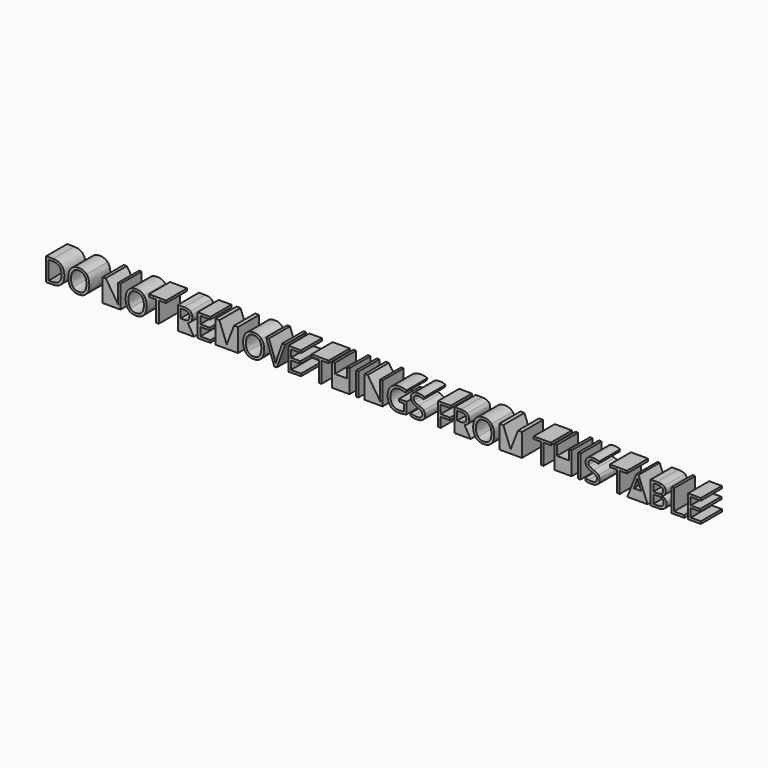
from build123d import *

# Parameters (mm, degrees)
F0_W     = 0.8051676295
F0_H     = 6.9280807897
F0_W_2   = 3.6497899892
F0_H_2   = 3.2600949218
F1_DEPTH = 8


with BuildPart() as f1:
    # F0 (on Front) → F1 (new body)
    with BuildSketch(Plane.XZ):
        with BuildLine():
            Line((-99.0477490182, 1.5), (-97.1280838223, 1.5))
            add(Edge.make_bspline(
                [(-94.4487406936, 2.4075194468), (-95.3797631503, 1.5), (-97.1280838223, 1.5)],
                knots=[0, 0, 0, 1, 1, 1], degree=2))
            add(Edge.make_bspline(
                [(-93.5177182368, 5.0300004549), (-93.5177182368, 3.3150388937), (-94.4487406936, 2.4075194468)],
                knots=[0, 0, 0, 1, 1, 1], degree=2))
            add(Edge.make_bspline(
                [(-94.4131070979, 7.5326919286), (-93.5177182368, 6.6373030675), (-93.5177182368, 5.0300004549)],
                knots=[0, 0, 0, 1, 1, 1], degree=2))
            add(Edge.make_bspline(
                [(-96.9248965109, 8.4280807897), (-95.308495959, 8.4280807897), (-94.4131070979, 7.5326919286)],
                knots=[0, 0, 0, 1, 1, 1], degree=2))
            Line((-96.9248965109, 8.4280807897), (-99.0477490182, 8.4280807897))
            Line((-99.0477490182, 8.4280807897), (-99.0477490182, 1.5))
        make_face()
        with BuildLine():
            add(Edge.make_bspline(
                [(-94.3698918862, 5.0011903137), (-94.3698918862, 6.3567832719), (-95.0499628501, 7.0436776903)],
                knots=[0, 0, 0, 1, 1, 1], degree=2))
            add(Edge.make_bspline(
                [(-95.0954525467, 2.9048734628), (-94.3698918862, 3.6137545679), (-94.3698918862, 5.0011903137)],
                knots=[0, 0, 0, 1, 1, 1], degree=2))
            add(Edge.make_bspline(
                [(-97.2615202657, 2.1959923577), (-95.8210132072, 2.1959923577), (-95.0954525467, 2.9048734628)],
                knots=[0, 0, 0, 1, 1, 1], degree=2))
            Line((-97.2615202657, 2.1959923577), (-98.2425813886, 2.1959923577))
            Line((-98.2425813886, 2.1959923577), (-98.2425813886, 7.7305721088))
            Line((-98.2425813886, 7.7305721088), (-97.0719798632, 7.7305721088))
            add(Edge.make_bspline(
                [(-95.0499628501, 7.0436776903), (-95.730033814, 7.7305721088), (-97.0719798632, 7.7305721088)],
                knots=[0, 0, 0, 1, 1, 1], degree=2))
        make_face(mode=Mode.SUBTRACT)
        with BuildLine():
            add(Edge.make_bspline(
                [(-88.2565695122, 1.5), (-88.6647423956, 1.4044716372), (-89.138576779, 1.4044716372)],
                knots=[0.6833950988, 0.6833950988, 0.6833950988, 1, 1, 1], degree=2))
            Line((-88.2565695122, 1.5), (-90.0447195094, 1.5))
            add(Edge.make_bspline(
                [(-89.138576779, 1.4044716372), (-89.6272682342, 1.4044716372), (-90.0447195094, 1.5)],
                knots=[0, 0, 0, 0.319412416, 0.319412416, 0.319412416], degree=2))
        make_face()
        with BuildLine():
            Line((-90.0447195094, 1.5), (-88.2565695122, 1.5))
            add(Edge.make_bspline(
                [(-86.8004063746, 2.3574807806), (-87.3755239349, 1.7061990029), (-88.2565695122, 1.5)],
                knots=[0, 0, 0, 0.6833950988, 0.6833950988, 0.6833950988], degree=2))
            add(Edge.make_bspline(
                [(-85.9588469878, 4.9738964958), (-85.9588469878, 3.310489924), (-86.8004063746, 2.3574807806)],
                knots=[0, 0, 0, 1, 1, 1], degree=2))
            add(Edge.make_bspline(
                [(-86.7973737282, 7.5895540493), (-85.9588469878, 6.6418520372), (-85.9588469878, 4.9738964958)],
                knots=[0, 0, 0, 1, 1, 1], degree=2))
            add(Edge.make_bspline(
                [(-89.1294788397, 8.5372560615), (-87.6359004685, 8.5372560615), (-86.7973737282, 7.5895540493)],
                knots=[0, 0, 0, 1, 1, 1], degree=2))
            add(Edge.make_bspline(
                [(-91.4979757085, 7.6062336048), (-90.6639979378, 8.5372560615), (-89.1294788397, 8.5372560615)],
                knots=[0, 0, 0, 1, 1, 1], degree=2))
            add(Edge.make_bspline(
                [(-92.3319534792, 4.9829944351), (-92.3319534792, 6.675211148), (-91.4979757085, 7.6062336048)],
                knots=[0, 0, 0, 1, 1, 1], degree=2))
            add(Edge.make_bspline(
                [(-91.5002501933, 2.3408012252), (-92.3319534792, 3.2771308132), (-92.3319534792, 4.9829944351)],
                knots=[0, 0, 0, 1, 1, 1], degree=2))
            add(Edge.make_bspline(
                [(-90.0447195094, 1.5), (-90.9342032634, 1.7035469331), (-91.5002501933, 2.3408012252)],
                knots=[0.319412416, 0.319412416, 0.319412416, 1, 1, 1], degree=2))
        make_face()
        with BuildLine():
            add(Edge.make_bspline(
                [(-91.4797798299, 4.9738964958), (-91.4797798299, 3.5667485481), (-90.8800739966, 2.8389134028)],
                knots=[0, 0, 0, 1, 1, 1], degree=2))
            add(Edge.make_bspline(
                [(-90.8800739966, 7.0891673869), (-91.4797798299, 6.3613322416), (-91.4797798299, 4.9738964958)],
                knots=[0, 0, 0, 1, 1, 1], degree=2))
            add(Edge.make_bspline(
                [(-89.1294788397, 7.8170025323), (-90.2803681633, 7.8170025323), (-90.8800739966, 7.0891673869)],
                knots=[0, 0, 0, 1, 1, 1], degree=2))
            add(Edge.make_bspline(
                [(-87.3978377231, 7.0944745182), (-87.9831384858, 7.8170025323), (-89.1294788397, 7.8170025323)],
                knots=[0, 0, 0, 1, 1, 1], degree=2))
            add(Edge.make_bspline(
                [(-86.8125369604, 4.9738964958), (-86.8125369604, 6.3719465041), (-87.3978377231, 7.0944745182)],
                knots=[0, 0, 0, 1, 1, 1], degree=2))
            add(Edge.make_bspline(
                [(-87.4001122079, 2.8358807563), (-86.8125369604, 3.5606832552), (-86.8125369604, 4.9738964958)],
                knots=[0, 0, 0, 1, 1, 1], degree=2))
            add(Edge.make_bspline(
                [(-89.138576779, 2.1110782574), (-87.9876874555, 2.1110782574), (-87.4001122079, 2.8358807563)],
                knots=[0, 0, 0, 1, 1, 1], degree=2))
            add(Edge.make_bspline(
                [(-90.8800739966, 2.8389134028), (-90.2803681633, 2.1110782574), (-89.138576779, 2.1110782574)],
                knots=[0, 0, 0, 1, 1, 1], degree=2))
        make_face(mode=Mode.SUBTRACT)
        with BuildLine():
            Line((-77.4007187372, 1.5), (-76.4818268662, 1.5))
            Line((-76.4818268662, 1.5), (-76.4818268662, 8.4280807897))
            Line((-76.4818268662, 8.4280807897), (-77.2354395063, 8.4280807897))
            Line((-77.2354395063, 8.4280807897), (-77.2354395063, 4.4522813083))
            add(Edge.make_bspline(
                [(-77.2111783348, 3.4590895995), (-77.2445374456, 4.1535656341), (-77.2354395063, 4.4522813083)],
                knots=[0, 0, 0, 1, 1, 1], degree=2))
            add(Edge.make_bspline(
                [(-77.1687212846, 2.6372424146), (-77.1778192239, 2.764613565), (-77.2111783348, 3.4590895995)],
                knots=[0, 0, 0, 1, 1, 1], degree=2))
            Line((-77.1687212846, 2.6372424146), (-77.2066293651, 2.6372424146))
            Line((-77.2066293651, 2.6372424146), (-80.9837905048, 8.4280807897))
            Line((-80.9837905048, 8.4280807897), (-81.8935844365, 8.4280807897))
            Line((-81.8935844365, 8.4280807897), (-81.8935844365, 1.5))
            Line((-81.8935844365, 1.5), (-81.1490697357, 1.5))
            Line((-81.1490697357, 1.5), (-81.1490697357, 5.4378914009))
            add(Edge.make_bspline(
                [(-81.2248858967, 7.3135832234), (-81.1490697357, 6.2900650503), (-81.1490697357, 5.4378914009)],
                knots=[0, 0, 0, 1, 1, 1], degree=2))
            Line((-81.2248858967, 7.3135832234), (-81.1869778162, 7.3135832234))
            Line((-81.1869778162, 7.3135832234), (-77.4007187372, 1.5))
        make_face()
        with BuildLine():
            add(Edge.make_bspline(
                [(-70.8613095386, 1.5), (-71.269482422, 1.4044716372), (-71.7433168054, 1.4044716372)],
                knots=[0.6833950988, 0.6833950988, 0.6833950988, 1, 1, 1], degree=2))
            Line((-70.8613095386, 1.5), (-72.6494595358, 1.5))
            add(Edge.make_bspline(
                [(-71.7433168054, 1.4044716372), (-72.2320082605, 1.4044716372), (-72.6494595358, 1.5)],
                knots=[0, 0, 0, 0.319412416, 0.319412416, 0.319412416], degree=2))
        make_face()
        with BuildLine():
            Line((-72.6494595358, 1.5), (-70.8613095386, 1.5))
            add(Edge.make_bspline(
                [(-69.405146401, 2.3574807806), (-69.9802639613, 1.7061990029), (-70.8613095386, 1.5)],
                knots=[0, 0, 0, 0.6833950988, 0.6833950988, 0.6833950988], degree=2))
            add(Edge.make_bspline(
                [(-68.5635870142, 4.9738964958), (-68.5635870142, 3.310489924), (-69.405146401, 2.3574807806)],
                knots=[0, 0, 0, 1, 1, 1], degree=2))
            add(Edge.make_bspline(
                [(-69.4021137546, 7.5895540493), (-68.5635870142, 6.6418520372), (-68.5635870142, 4.9738964958)],
                knots=[0, 0, 0, 1, 1, 1], degree=2))
            add(Edge.make_bspline(
                [(-71.7342188661, 8.5372560615), (-70.2406404949, 8.5372560615), (-69.4021137546, 7.5895540493)],
                knots=[0, 0, 0, 1, 1, 1], degree=2))
            add(Edge.make_bspline(
                [(-74.1027157349, 7.6062336048), (-73.2687379642, 8.5372560615), (-71.7342188661, 8.5372560615)],
                knots=[0, 0, 0, 1, 1, 1], degree=2))
            add(Edge.make_bspline(
                [(-74.9366935056, 4.9829944351), (-74.9366935056, 6.675211148), (-74.1027157349, 7.6062336048)],
                knots=[0, 0, 0, 1, 1, 1], degree=2))
            add(Edge.make_bspline(
                [(-74.1049902197, 2.3408012252), (-74.9366935056, 3.2771308132), (-74.9366935056, 4.9829944351)],
                knots=[0, 0, 0, 1, 1, 1], degree=2))
            add(Edge.make_bspline(
                [(-72.6494595358, 1.5), (-73.5389432898, 1.7035469331), (-74.1049902197, 2.3408012252)],
                knots=[0.319412416, 0.319412416, 0.319412416, 1, 1, 1], degree=2))
        make_face()
        with BuildLine():
            add(Edge.make_bspline(
                [(-74.0845198563, 4.9738964958), (-74.0845198563, 3.5667485481), (-73.484814023, 2.8389134028)],
                knots=[0, 0, 0, 1, 1, 1], degree=2))
            add(Edge.make_bspline(
                [(-73.484814023, 7.0891673869), (-74.0845198563, 6.3613322416), (-74.0845198563, 4.9738964958)],
                knots=[0, 0, 0, 1, 1, 1], degree=2))
            add(Edge.make_bspline(
                [(-71.7342188661, 7.8170025323), (-72.8851081897, 7.8170025323), (-73.484814023, 7.0891673869)],
                knots=[0, 0, 0, 1, 1, 1], degree=2))
            add(Edge.make_bspline(
                [(-70.0025777495, 7.0944745182), (-70.5878785122, 7.8170025323), (-71.7342188661, 7.8170025323)],
                knots=[0, 0, 0, 1, 1, 1], degree=2))
            add(Edge.make_bspline(
                [(-69.4172769868, 4.9738964958), (-69.4172769868, 6.3719465041), (-70.0025777495, 7.0944745182)],
                knots=[0, 0, 0, 1, 1, 1], degree=2))
            add(Edge.make_bspline(
                [(-70.0048522343, 2.8358807563), (-69.4172769868, 3.5606832552), (-69.4172769868, 4.9738964958)],
                knots=[0, 0, 0, 1, 1, 1], degree=2))
            add(Edge.make_bspline(
                [(-71.7433168054, 2.1110782574), (-70.5924274818, 2.1110782574), (-70.0048522343, 2.8358807563)],
                knots=[0, 0, 0, 1, 1, 1], degree=2))
            add(Edge.make_bspline(
                [(-73.484814023, 2.8389134028), (-72.8851081897, 2.1110782574), (-71.7433168054, 2.1110782574)],
                knots=[0, 0, 0, 1, 1, 1], degree=2))
        make_face(mode=Mode.SUBTRACT)
        Polygon((-65.6931871598, 1.5), (-64.8880195302, 1.5), (-64.8880195302, 7.7123762301), (-62.6938998317, 7.7123762301), (-62.6938998317, 8.4280807897), (-67.8873068583, 8.4280807897), (-67.8873068583, 7.7123762301), (-65.6931871598, 7.7123762301), align=None)
        with BuildLine():
            Line((-55.2002304811, 1.5), (-54.2479794993, 1.5))
            Line((-54.2479794993, 1.5), (-56.1297366147, 4.6130115695))
            add(Edge.make_bspline(
                [(-54.736235576, 6.4705075134), (-54.736235576, 5.0967186766), (-56.1297366147, 4.6130115695)],
                knots=[0, 0, 0, 1, 1, 1], degree=2))
            add(Edge.make_bspline(
                [(-55.3450393486, 7.939824713), (-54.736235576, 7.4515686364), (-54.736235576, 6.4705075134)],
                knots=[0, 0, 0, 1, 1, 1], degree=2))
            add(Edge.make_bspline(
                [(-57.2290709488, 8.4280807897), (-55.9538431212, 8.4280807897), (-55.3450393486, 7.939824713)],
                knots=[0, 0, 0, 1, 1, 1], degree=2))
            Line((-57.2290709488, 8.4280807897), (-59.1290239427, 8.4280807897))
            Line((-59.1290239427, 8.4280807897), (-59.1290239427, 1.5))
            Line((-59.1290239427, 1.5), (-58.3238563132, 1.5))
            Line((-58.3238563132, 1.5), (-58.3238563132, 4.381014117))
            Line((-58.3238563132, 4.381014117), (-56.8772839618, 4.381014117))
            Line((-56.8772839618, 4.381014117), (-55.2002304811, 1.5))
        make_face()
        with BuildLine():
            Line((-57.2184566862, 5.072457505), (-58.3238563132, 5.072457505))
            Line((-58.3238563132, 5.072457505), (-58.3238563132, 7.7214741694))
            Line((-58.3238563132, 7.7214741694), (-57.2760769686, 7.7214741694))
            add(Edge.make_bspline(
                [(-55.9750716463, 7.4182095255), (-56.3799299459, 7.7214741694), (-57.2760769686, 7.7214741694)],
                knots=[0, 0, 0, 1, 1, 1], degree=2))
            add(Edge.make_bspline(
                [(-55.5702133467, 6.4280504632), (-55.5702133467, 7.1149448817), (-55.9750716463, 7.4182095255)],
                knots=[0, 0, 0, 1, 1, 1], degree=2))
            add(Edge.make_bspline(
                [(-55.9682481918, 5.4113557446), (-55.5702133467, 5.7502539841), (-55.5702133467, 6.4280504632)],
                knots=[0, 0, 0, 1, 1, 1], degree=2))
            add(Edge.make_bspline(
                [(-57.2184566862, 5.072457505), (-56.3662830369, 5.072457505), (-55.9682481918, 5.4113557446)],
                knots=[0, 0, 0, 1, 1, 1], degree=2))
        make_face(mode=Mode.SUBTRACT)
        Polygon((-53.1304492866, 1.5), (-49.2683740466, 1.5), (-49.2683740466, 2.2202535292), (-52.325281657, 2.2202535292), (-52.325281657, 4.7691928612), (-49.4533654794, 4.7691928612), (-49.4533654794, 5.4803484511), (-52.325281657, 5.4803484511), (-52.325281657, 7.7123762301), (-49.2683740466, 7.7123762301), (-49.2683740466, 8.4280807897), (-53.1304492866, 8.4280807897), align=None)
        with BuildLine():
            Line((-41.67766001, 1.5), (-40.8724923805, 1.5))
            Line((-40.8724923805, 1.5), (-40.8724923805, 8.4280807897))
            Line((-40.8724923805, 8.4280807897), (-42.0764530167, 8.4280807897))
            Line((-42.0764530167, 8.4280807897), (-44.2887685939, 2.7130585756))
            Line((-44.2887685939, 2.7130585756), (-44.3266766744, 2.7130585756))
            Line((-44.3266766744, 2.7130585756), (-46.520796373, 8.4280807897))
            Line((-46.520796373, 8.4280807897), (-47.7338549485, 8.4280807897))
            Line((-47.7338549485, 8.4280807897), (-47.7338549485, 1.5))
            Line((-47.7338549485, 1.5), (-46.9893402478, 1.5))
            Line((-46.9893402478, 1.5), (-46.9893402478, 5.9064352757))
            add(Edge.make_bspline(
                [(-47.0560584694, 7.6411090388), (-46.9893402478, 6.9117575702), (-46.9893402478, 5.9064352757)],
                knots=[0, 0, 0, 1, 1, 1], degree=2))
            Line((-47.0560584694, 7.6411090388), (-47.0181503889, 7.6411090388))
            Line((-47.0181503889, 7.6411090388), (-44.6678493988, 1.5))
            Line((-44.6678493988, 1.5), (-44.0188630609, 1.5))
            Line((-44.0188630609, 1.5), (-41.6488498688, 7.6320110995))
            Line((-41.6488498688, 7.6320110995), (-41.6109417884, 7.6320110995))
            add(Edge.make_bspline(
                [(-41.67766001, 5.9640555581), (-41.67766001, 6.7313151071), (-41.6109417884, 7.6320110995)],
                knots=[0, 0, 0, 1, 1, 1], degree=2))
            Line((-41.67766001, 5.9640555581), (-41.67766001, 1.5))
        make_face()
        with BuildLine():
            add(Edge.make_bspline(
                [(-35.2565240225, 1.5), (-35.6646969059, 1.4044716372), (-36.1385312893, 1.4044716372)],
                knots=[0.6833950988, 0.6833950988, 0.6833950988, 1, 1, 1], degree=2))
            Line((-35.2565240225, 1.5), (-37.0446740197, 1.5))
            add(Edge.make_bspline(
                [(-36.1385312893, 1.4044716372), (-36.6272227445, 1.4044716372), (-37.0446740197, 1.5)],
                knots=[0, 0, 0, 0.319412416, 0.319412416, 0.319412416], degree=2))
        make_face()
        with BuildLine():
            Line((-37.0446740197, 1.5), (-35.2565240225, 1.5))
            add(Edge.make_bspline(
                [(-33.8003608849, 2.3574807806), (-34.3754784452, 1.7061990029), (-35.2565240225, 1.5)],
                knots=[0, 0, 0, 0.6833950988, 0.6833950988, 0.6833950988], degree=2))
            add(Edge.make_bspline(
                [(-32.9588014981, 4.9738964958), (-32.9588014981, 3.310489924), (-33.8003608849, 2.3574807806)],
                knots=[0, 0, 0, 1, 1, 1], degree=2))
            add(Edge.make_bspline(
                [(-33.7973282385, 7.5895540493), (-32.9588014981, 6.6418520372), (-32.9588014981, 4.9738964958)],
                knots=[0, 0, 0, 1, 1, 1], degree=2))
            add(Edge.make_bspline(
                [(-36.12943335, 8.5372560615), (-34.6358549788, 8.5372560615), (-33.7973282385, 7.5895540493)],
                knots=[0, 0, 0, 1, 1, 1], degree=2))
            add(Edge.make_bspline(
                [(-38.4979302188, 7.6062336048), (-37.6639524481, 8.5372560615), (-36.12943335, 8.5372560615)],
                knots=[0, 0, 0, 1, 1, 1], degree=2))
            add(Edge.make_bspline(
                [(-39.3319079895, 4.9829944351), (-39.3319079895, 6.675211148), (-38.4979302188, 7.6062336048)],
                knots=[0, 0, 0, 1, 1, 1], degree=2))
            add(Edge.make_bspline(
                [(-38.5002047036, 2.3408012252), (-39.3319079895, 3.2771308132), (-39.3319079895, 4.9829944351)],
                knots=[0, 0, 0, 1, 1, 1], degree=2))
            add(Edge.make_bspline(
                [(-37.0446740197, 1.5), (-37.9341577737, 1.7035469331), (-38.5002047036, 2.3408012252)],
                knots=[0.319412416, 0.319412416, 0.319412416, 1, 1, 1], degree=2))
        make_face()
        with BuildLine():
            add(Edge.make_bspline(
                [(-38.4797343402, 4.9738964958), (-38.4797343402, 3.5667485481), (-37.8800285069, 2.8389134028)],
                knots=[0, 0, 0, 1, 1, 1], degree=2))
            add(Edge.make_bspline(
                [(-37.8800285069, 7.0891673869), (-38.4797343402, 6.3613322416), (-38.4797343402, 4.9738964958)],
                knots=[0, 0, 0, 1, 1, 1], degree=2))
            add(Edge.make_bspline(
                [(-36.12943335, 7.8170025323), (-37.2803226736, 7.8170025323), (-37.8800285069, 7.0891673869)],
                knots=[0, 0, 0, 1, 1, 1], degree=2))
            add(Edge.make_bspline(
                [(-34.3977922334, 7.0944745182), (-34.9830929961, 7.8170025323), (-36.12943335, 7.8170025323)],
                knots=[0, 0, 0, 1, 1, 1], degree=2))
            add(Edge.make_bspline(
                [(-33.8124914707, 4.9738964958), (-33.8124914707, 6.3719465041), (-34.3977922334, 7.0944745182)],
                knots=[0, 0, 0, 1, 1, 1], degree=2))
            add(Edge.make_bspline(
                [(-34.4000667182, 2.8358807563), (-33.8124914707, 3.5606832552), (-33.8124914707, 4.9738964958)],
                knots=[0, 0, 0, 1, 1, 1], degree=2))
            add(Edge.make_bspline(
                [(-36.1385312893, 2.1110782574), (-34.9876419658, 2.1110782574), (-34.4000667182, 2.8358807563)],
                knots=[0, 0, 0, 1, 1, 1], degree=2))
            add(Edge.make_bspline(
                [(-37.8800285069, 2.8389134028), (-37.2803226736, 2.1110782574), (-36.1385312893, 2.1110782574)],
                knots=[0, 0, 0, 1, 1, 1], degree=2))
        make_face(mode=Mode.SUBTRACT)
        with BuildLine():
            Line((-29.8836980091, 1.5), (-29.0876283189, 1.5))
            Line((-29.0876283189, 1.5), (-26.5917602996, 8.4280807897))
            Line((-26.5917602996, 8.4280807897), (-27.4575808579, 8.4280807897))
            Line((-27.4575808579, 8.4280807897), (-29.040622299, 3.9731231709))
            add(Edge.make_bspline(
                [(-29.4864213256, 2.4431530425), (-29.3150768018, 3.2104125915), (-29.040622299, 3.9731231709)],
                knots=[0, 0, 0, 1, 1, 1], degree=2))
            add(Edge.make_bspline(
                [(-29.9216060896, 3.945829353), (-29.6471515868, 3.1725045111), (-29.4864213256, 2.4431530425)],
                knots=[0, 0, 0, 1, 1, 1], degree=2))
            Line((-29.9216060896, 3.945829353), (-31.51374547, 8.4280807897))
            Line((-31.51374547, 8.4280807897), (-32.3674354425, 8.4280807897))
            Line((-32.3674354425, 8.4280807897), (-29.8836980091, 1.5))
        make_face()
        Polygon((-25.6395093178, 1.5), (-21.7774340778, 1.5), (-21.7774340778, 2.2202535292), (-24.8343416883, 2.2202535292), (-24.8343416883, 4.7691928612), (-21.9624255106, 4.7691928612), (-21.9624255106, 5.4803484511), (-24.8343416883, 5.4803484511), (-24.8343416883, 7.7123762301), (-21.7774340778, 7.7123762301), (-21.7774340778, 8.4280807897), (-25.6395093178, 8.4280807897), align=None)
        Polygon((-16.3944866488, 1.5), (-15.5893190192, 1.5), (-15.5893190192, 7.7123762301), (-13.3951993207, 7.7123762301), (-13.3951993207, 8.4280807897), (-18.5886063473, 8.4280807897), (-18.5886063473, 7.7123762301), (-16.3944866488, 7.7123762301), align=None)
        Polygon((-7.8970113269, 1.5), (-7.0918436974, 1.5), (-7.0918436974, 8.4280807897), (-7.8970113269, 8.4280807897), (-7.8970113269, 5.4803484511), (-11.5468013162, 5.4803484511), (-11.5468013162, 8.4280807897), (-12.3519689457, 8.4280807897), (-12.3519689457, 1.5), (-11.5468013162, 1.5), (-11.5468013162, 4.7600949218), (-7.8970113269, 4.7600949218), align=None)
        with Locations((-4.7893068887, 4.9640403949)):
            Rectangle(F0_W, F0_H)
        with BuildLine():
            Line((2.0060956193, 1.5), (2.9249874903, 1.5))
            Line((2.9249874903, 1.5), (2.9249874903, 8.4280807897))
            Line((2.9249874903, 8.4280807897), (2.1713748503, 8.4280807897))
            Line((2.1713748503, 8.4280807897), (2.1713748503, 4.4522813083))
            add(Edge.make_bspline(
                [(2.1956360218, 3.4590895995), (2.1622769109, 4.1535656341), (2.1713748503, 4.4522813083)],
                knots=[0, 0, 0, 1, 1, 1], degree=2))
            add(Edge.make_bspline(
                [(2.2380930719, 2.6372424146), (2.2289951326, 2.764613565), (2.1956360218, 3.4590895995)],
                knots=[0, 0, 0, 1, 1, 1], degree=2))
            Line((2.2380930719, 2.6372424146), (2.2001849914, 2.6372424146))
            Line((2.2001849914, 2.6372424146), (-1.5769761482, 8.4280807897))
            Line((-1.5769761482, 8.4280807897), (-2.4867700799, 8.4280807897))
            Line((-2.4867700799, 8.4280807897), (-2.4867700799, 1.5))
            Line((-2.4867700799, 1.5), (-1.7422553792, 1.5))
            Line((-1.7422553792, 1.5), (-1.7422553792, 5.4378914009))
            add(Edge.make_bspline(
                [(-1.8180715401, 7.3135832234), (-1.7422553792, 6.2900650503), (-1.7422553792, 5.4378914009)],
                knots=[0, 0, 0, 1, 1, 1], degree=2))
            Line((-1.8180715401, 7.3135832234), (-1.7801634596, 7.3135832234))
            Line((-1.7801634596, 7.3135832234), (2.0060956193, 1.5))
        make_face()
        with BuildLine():
            add(Edge.make_bspline(
                [(9.1460810607, 1.5), (9.1295994626, 1.497310379), (9.1131025489, 1.4946928687)],
                knots=[0.9709878678, 0.9709878678, 0.9709878678, 1, 1, 1], degree=2))
            Line((9.1460810607, 1.5), (6.8619202702, 1.5))
            add(Edge.make_bspline(
                [(7.7954176712, 1.4044716372), (7.2931649071, 1.4044716372), (6.8619202702, 1.5)],
                knots=[0, 0, 0, 0.319412416, 0.319412416, 0.319412416], degree=2))
            add(Edge.make_bspline(
                [(9.1131025489, 1.4946928687), (8.5444813416, 1.4044716372), (7.7954176712, 1.4044716372)],
                knots=[0, 0, 0, 1, 1, 1], degree=2))
        make_face()
        with BuildLine():
            Line((6.8619202702, 1.5), (9.1460810607, 1.5))
            add(Edge.make_bspline(
                [(10.2321490849, 1.7608075937), (9.6976927686, 1.5900171456), (9.1460810607, 1.5)],
                knots=[0, 0, 0, 0.9709878678, 0.9709878678, 0.9709878678], degree=2))
            Line((10.2321490849, 1.7608075937), (10.2321490849, 5.1300777874))
            Line((10.2321490849, 5.1300777874), (7.8772991251, 5.1300777874))
            Line((7.8772991251, 5.1300777874), (7.8772991251, 4.4098242581))
            Line((7.8772991251, 4.4098242581), (9.4254651321, 4.4098242581))
            Line((9.4254651321, 4.4098242581), (9.4254651321, 2.2778738116))
            add(Edge.make_bspline(
                [(8.0183171845, 2.1110782574), (8.7385707137, 2.1110782574), (9.4254651321, 2.2778738116)],
                knots=[0, 0, 0, 1, 1, 1], degree=2))
            add(Edge.make_bspline(
                [(6.0069144339, 2.8358807563), (6.6915343675, 2.1110782574), (8.0183171845, 2.1110782574)],
                knots=[0, 0, 0, 1, 1, 1], degree=2))
            add(Edge.make_bspline(
                [(5.3222945003, 4.9632822332), (5.3222945003, 3.5606832552), (6.0069144339, 2.8358807563)],
                knots=[0, 0, 0, 1, 1, 1], degree=2))
            add(Edge.make_bspline(
                [(6.0334500902, 7.0535337913), (5.3222945003, 6.3006793128), (5.3222945003, 4.9632822332)],
                knots=[0, 0, 0, 1, 1, 1], degree=2))
            add(Edge.make_bspline(
                [(8.0092192452, 7.8063882697), (6.7446056801, 7.8063882697), (6.0334500902, 7.0535337913)],
                knots=[0, 0, 0, 1, 1, 1], degree=2))
            add(Edge.make_bspline(
                [(9.8151601995, 7.4091115862), (8.8765561267, 7.8063882697), (8.0092192452, 7.8063882697)],
                knots=[0, 0, 0, 1, 1, 1], degree=2))
            Line((9.8151601995, 7.4091115862), (10.1275227828, 8.1202671762))
            add(Edge.make_bspline(
                [(8.0607742346, 8.526641799), (9.1707228313, 8.526641799), (10.1275227828, 8.1202671762)],
                knots=[0, 0, 0, 1, 1, 1], degree=2))
            add(Edge.make_bspline(
                [(6.1524814629, 8.0982804895), (6.9675051934, 8.526641799), (8.0607742346, 8.526641799)],
                knots=[0, 0, 0, 1, 1, 1], degree=2))
            add(Edge.make_bspline(
                [(4.9037892917, 6.8571699343), (5.3374577325, 7.66991918), (6.1524814629, 8.0982804895)],
                knots=[0, 0, 0, 1, 1, 1], degree=2))
            add(Edge.make_bspline(
                [(4.470120851, 4.9632822332), (4.470120851, 6.0444206887), (4.9037892917, 6.8571699343)],
                knots=[0, 0, 0, 1, 1, 1], degree=2))
            add(Edge.make_bspline(
                [(5.3465556718, 2.3408012252), (4.470120851, 3.2771308132), (4.470120851, 4.9632822332)],
                knots=[0, 0, 0, 1, 1, 1], degree=2))
            add(Edge.make_bspline(
                [(6.8619202702, 1.5), (5.9430463291, 1.7035469331), (5.3465556718, 2.3408012252)],
                knots=[0.319412416, 0.319412416, 0.319412416, 1, 1, 1], degree=2))
        make_face()
        with BuildLine():
            add(Edge.make_bspline(
                [(14.2327366697, 1.5), (13.8300766863, 1.4044716372), (13.3390953616, 1.4044716372)],
                knots=[0.5682703015, 0.5682703015, 0.5682703015, 1, 1, 1], degree=2))
            Line((14.2327366697, 1.5), (12.1604551496, 1.5))
            add(Edge.make_bspline(
                [(13.3390953616, 1.4044716372), (12.664709523, 1.4044716372), (12.1604551496, 1.5)],
                knots=[0, 0, 0, 0.5477225575, 0.5477225575, 0.5477225575], degree=2))
        make_face()
        with BuildLine():
            Line((12.1604551496, 1.5), (14.2327366697, 1.5))
            add(Edge.make_bspline(
                [(15.1397291847, 1.9169888854), (14.7627435489, 1.6257405542), (14.2327366697, 1.5)],
                knots=[0, 0, 0, 0.5682703015, 0.5682703015, 0.5682703015], degree=2))
            add(Edge.make_bspline(
                [(15.8031205932, 3.3438490349), (15.8031205932, 2.4295061335), (15.1397291847, 1.9169888854)],
                knots=[0, 0, 0, 1, 1, 1], degree=2))
            add(Edge.make_bspline(
                [(15.3937133239, 4.4992873281), (15.8031205932, 4.0534883016), (15.8031205932, 3.3438490349)],
                knots=[0, 0, 0, 1, 1, 1], degree=2))
            add(Edge.make_bspline(
                [(13.8940696599, 5.3332650988), (14.9843060547, 4.9450863546), (15.3937133239, 4.4992873281)],
                knots=[0, 0, 0, 1, 1, 1], degree=2))
            add(Edge.make_bspline(
                [(12.9296880923, 5.7570774386), (13.245083322, 5.5652625514), (13.8940696599, 5.3332650988)],
                knots=[0, 0, 0, 1, 1, 1], degree=2))
            add(Edge.make_bspline(
                [(12.481614581, 6.1793734552), (12.6142928627, 5.9488923259), (12.9296880923, 5.7570774386)],
                knots=[0, 0, 0, 1, 1, 1], degree=2))
            add(Edge.make_bspline(
                [(12.3489362993, 6.7692231876), (12.3489362993, 6.4098545846), (12.481614581, 6.1793734552)],
                knots=[0, 0, 0, 1, 1, 1], degree=2))
            add(Edge.make_bspline(
                [(12.7090630639, 7.531933767), (12.3489362993, 7.2574792643), (12.3489362993, 6.7692231876)],
                knots=[0, 0, 0, 1, 1, 1], degree=2))
            add(Edge.make_bspline(
                [(13.7090782271, 7.8063882697), (13.0691898285, 7.8063882697), (12.7090630639, 7.531933767)],
                knots=[0, 0, 0, 1, 1, 1], degree=2))
            add(Edge.make_bspline(
                [(15.3770337685, 7.4470196667), (14.5187948263, 7.8063882697), (13.7090782271, 7.8063882697)],
                knots=[0, 0, 0, 1, 1, 1], degree=2))
            Line((15.3770337685, 7.4470196667), (15.6287434229, 8.1475609941))
            add(Edge.make_bspline(
                [(13.728790429, 8.526641799), (14.7614065414, 8.526641799), (15.6287434229, 8.1475609941)],
                knots=[0, 0, 0, 1, 1, 1], degree=2))
            add(Edge.make_bspline(
                [(12.1358928869, 8.0527907929), (12.7371150434, 8.526641799), (13.728790429, 8.526641799)],
                knots=[0, 0, 0, 1, 1, 1], degree=2))
            add(Edge.make_bspline(
                [(11.5346707304, 6.7783211269), (11.5346707304, 7.5789397868), (12.1358928869, 8.0527907929)],
                knots=[0, 0, 0, 1, 1, 1], degree=2))
            add(Edge.make_bspline(
                [(11.9493851309, 5.5417595415), (11.5346707304, 6.0156105475), (11.5346707304, 6.7783211269)],
                knots=[0, 0, 0, 1, 1, 1], degree=2))
            add(Edge.make_bspline(
                [(13.3299974223, 4.7221868413), (12.3640995315, 5.0679085354), (11.9493851309, 5.5417595415)],
                knots=[0, 0, 0, 1, 1, 1], degree=2))
            add(Edge.make_bspline(
                [(14.3603390499, 4.2816949461), (14.0214408103, 4.4765424798), (13.3299974223, 4.7221868413)],
                knots=[0, 0, 0, 1, 1, 1], degree=2))
            add(Edge.make_bspline(
                [(14.8440461569, 3.8571244446), (14.6992372894, 4.0868474124), (14.3603390499, 4.2816949461)],
                knots=[0, 0, 0, 1, 1, 1], degree=2))
            add(Edge.make_bspline(
                [(14.9888550243, 3.2680328739), (14.9888550243, 3.6274014769), (14.8440461569, 3.8571244446)],
                knots=[0, 0, 0, 1, 1, 1], degree=2))
            add(Edge.make_bspline(
                [(14.5809640783, 2.4166173862), (14.9888550243, 2.7221565149), (14.9888550243, 3.2680328739)],
                knots=[0, 0, 0, 1, 1, 1], degree=2))
            add(Edge.make_bspline(
                [(13.3679055027, 2.1110782574), (14.1730731323, 2.1110782574), (14.5809640783, 2.4166173862)],
                knots=[0, 0, 0, 1, 1, 1], degree=2))
            add(Edge.make_bspline(
                [(12.3731974708, 2.2157045596), (12.8751004564, 2.1110782574), (13.3679055027, 2.1110782574)],
                knots=[0, 0, 0, 1, 1, 1], degree=2))
            add(Edge.make_bspline(
                [(11.4436913372, 2.4992570016), (11.8712944851, 2.3203308617), (12.3731974708, 2.2157045596)],
                knots=[0, 0, 0, 1, 1, 1], degree=2))
            Line((11.4436913372, 2.4992570016), (11.4436913372, 1.7228995133))
            add(Edge.make_bspline(
                [(12.1604551496, 1.5), (11.7440712063, 1.5788817678), (11.4436913372, 1.7228995133)],
                knots=[0.5477225575, 0.5477225575, 0.5477225575, 1, 1, 1], degree=2))
        make_face()
        Polygon((19.7425283173, 1.5), (20.5476959469, 1.5), (20.5476959469, 4.4613792476), (23.4196121245, 4.4613792476), (23.4196121245, 5.1770838072), (20.5476959469, 5.1770838072), (20.5476959469, 7.7123762301), (23.6046035573, 7.7123762301), (23.6046035573, 8.4280807897), (19.7425283173, 8.4280807897), align=None)
        with BuildLine():
            Line((28.6797373728, 1.5), (29.6319883546, 1.5))
            Line((29.6319883546, 1.5), (27.7502312393, 4.6130115695))
            add(Edge.make_bspline(
                [(29.143732278, 6.4705075134), (29.143732278, 5.0967186766), (27.7502312393, 4.6130115695)],
                knots=[0, 0, 0, 1, 1, 1], degree=2))
            add(Edge.make_bspline(
                [(28.5349285054, 7.939824713), (29.143732278, 7.4515686364), (29.143732278, 6.4705075134)],
                knots=[0, 0, 0, 1, 1, 1], degree=2))
            add(Edge.make_bspline(
                [(26.6508969052, 8.4280807897), (27.9261247327, 8.4280807897), (28.5349285054, 7.939824713)],
                knots=[0, 0, 0, 1, 1, 1], degree=2))
            Line((26.6508969052, 8.4280807897), (24.7509439112, 8.4280807897))
            Line((24.7509439112, 8.4280807897), (24.7509439112, 1.5))
            Line((24.7509439112, 1.5), (25.5561115407, 1.5))
            Line((25.5561115407, 1.5), (25.5561115407, 4.381014117))
            Line((25.5561115407, 4.381014117), (27.0026838921, 4.381014117))
            Line((27.0026838921, 4.381014117), (28.6797373728, 1.5))
        make_face()
        with BuildLine():
            Line((26.6615111677, 5.072457505), (25.5561115407, 5.072457505))
            Line((25.5561115407, 5.072457505), (25.5561115407, 7.7214741694))
            Line((25.5561115407, 7.7214741694), (26.6038908854, 7.7214741694))
            add(Edge.make_bspline(
                [(27.9048962077, 7.4182095255), (27.5000379081, 7.7214741694), (26.6038908854, 7.7214741694)],
                knots=[0, 0, 0, 1, 1, 1], degree=2))
            add(Edge.make_bspline(
                [(28.3097545073, 6.4280504632), (28.3097545073, 7.1149448817), (27.9048962077, 7.4182095255)],
                knots=[0, 0, 0, 1, 1, 1], degree=2))
            add(Edge.make_bspline(
                [(27.9117196622, 5.4113557446), (28.3097545073, 5.7502539841), (28.3097545073, 6.4280504632)],
                knots=[0, 0, 0, 1, 1, 1], degree=2))
            add(Edge.make_bspline(
                [(26.6615111677, 5.072457505), (27.5136848171, 5.072457505), (27.9117196622, 5.4113557446)],
                knots=[0, 0, 0, 1, 1, 1], degree=2))
        make_face(mode=Mode.SUBTRACT)
        with BuildLine():
            add(Edge.make_bspline(
                [(34.4655339314, 1.5), (34.057361048, 1.4044716372), (33.5835266645, 1.4044716372)],
                knots=[0.6833950988, 0.6833950988, 0.6833950988, 1, 1, 1], degree=2))
            Line((34.4655339314, 1.5), (32.6773839342, 1.5))
            add(Edge.make_bspline(
                [(33.5835266645, 1.4044716372), (33.0948352094, 1.4044716372), (32.6773839342, 1.5)],
                knots=[0, 0, 0, 0.319412416, 0.319412416, 0.319412416], degree=2))
        make_face()
        with BuildLine():
            Line((32.6773839342, 1.5), (34.4655339314, 1.5))
            add(Edge.make_bspline(
                [(35.9216970689, 2.3574807806), (35.3465795087, 1.7061990029), (34.4655339314, 1.5)],
                knots=[0, 0, 0, 0.6833950988, 0.6833950988, 0.6833950988], degree=2))
            add(Edge.make_bspline(
                [(36.7632564557, 4.9738964958), (36.7632564557, 3.310489924), (35.9216970689, 2.3574807806)],
                knots=[0, 0, 0, 1, 1, 1], degree=2))
            add(Edge.make_bspline(
                [(35.9247297154, 7.5895540493), (36.7632564557, 6.6418520372), (36.7632564557, 4.9738964958)],
                knots=[0, 0, 0, 1, 1, 1], degree=2))
            add(Edge.make_bspline(
                [(33.5926246039, 8.5372560615), (35.086202975, 8.5372560615), (35.9247297154, 7.5895540493)],
                knots=[0, 0, 0, 1, 1, 1], degree=2))
            add(Edge.make_bspline(
                [(31.2241277351, 7.6062336048), (32.0581055058, 8.5372560615), (33.5926246039, 8.5372560615)],
                knots=[0, 0, 0, 1, 1, 1], degree=2))
            add(Edge.make_bspline(
                [(30.3901499644, 4.9829944351), (30.3901499644, 6.675211148), (31.2241277351, 7.6062336048)],
                knots=[0, 0, 0, 1, 1, 1], degree=2))
            add(Edge.make_bspline(
                [(31.2218532502, 2.3408012252), (30.3901499644, 3.2771308132), (30.3901499644, 4.9829944351)],
                knots=[0, 0, 0, 1, 1, 1], degree=2))
            add(Edge.make_bspline(
                [(32.6773839342, 1.5), (31.7879001802, 1.7035469331), (31.2218532502, 2.3408012252)],
                knots=[0.319412416, 0.319412416, 0.319412416, 1, 1, 1], degree=2))
        make_face()
        with BuildLine():
            add(Edge.make_bspline(
                [(31.2423236137, 4.9738964958), (31.2423236137, 3.5667485481), (31.842029447, 2.8389134028)],
                knots=[0, 0, 0, 1, 1, 1], degree=2))
            add(Edge.make_bspline(
                [(31.842029447, 7.0891673869), (31.2423236137, 6.3613322416), (31.2423236137, 4.9738964958)],
                knots=[0, 0, 0, 1, 1, 1], degree=2))
            add(Edge.make_bspline(
                [(33.5926246039, 7.8170025323), (32.4417352803, 7.8170025323), (31.842029447, 7.0891673869)],
                knots=[0, 0, 0, 1, 1, 1], degree=2))
            add(Edge.make_bspline(
                [(35.3242657205, 7.0944745182), (34.7389649578, 7.8170025323), (33.5926246039, 7.8170025323)],
                knots=[0, 0, 0, 1, 1, 1], degree=2))
            add(Edge.make_bspline(
                [(35.9095664832, 4.9738964958), (35.9095664832, 6.3719465041), (35.3242657205, 7.0944745182)],
                knots=[0, 0, 0, 1, 1, 1], degree=2))
            add(Edge.make_bspline(
                [(35.3219912357, 2.8358807563), (35.9095664832, 3.5606832552), (35.9095664832, 4.9738964958)],
                knots=[0, 0, 0, 1, 1, 1], degree=2))
            add(Edge.make_bspline(
                [(33.5835266645, 2.1110782574), (34.7344159881, 2.1110782574), (35.3219912357, 2.8358807563)],
                knots=[0, 0, 0, 1, 1, 1], degree=2))
            add(Edge.make_bspline(
                [(31.842029447, 2.8389134028), (32.4417352803, 2.1110782574), (33.5835266645, 2.1110782574)],
                knots=[0, 0, 0, 1, 1, 1], degree=2))
        make_face(mode=Mode.SUBTRACT)
        with BuildLine():
            Line((44.3630684317, 1.5), (45.1682360612, 1.5))
            Line((45.1682360612, 1.5), (45.1682360612, 8.4280807897))
            Line((45.1682360612, 8.4280807897), (43.9642754249, 8.4280807897))
            Line((43.9642754249, 8.4280807897), (41.7519598478, 2.7130585756))
            Line((41.7519598478, 2.7130585756), (41.7140517673, 2.7130585756))
            Line((41.7140517673, 2.7130585756), (39.5199320687, 8.4280807897))
            Line((39.5199320687, 8.4280807897), (38.3068734932, 8.4280807897))
            Line((38.3068734932, 8.4280807897), (38.3068734932, 1.5))
            Line((38.3068734932, 1.5), (39.0513881939, 1.5))
            Line((39.0513881939, 1.5), (39.0513881939, 5.9064352757))
            add(Edge.make_bspline(
                [(38.9846699723, 7.6411090388), (39.0513881939, 6.9117575702), (39.0513881939, 5.9064352757)],
                knots=[0, 0, 0, 1, 1, 1], degree=2))
            Line((38.9846699723, 7.6411090388), (39.0225780527, 7.6411090388))
            Line((39.0225780527, 7.6411090388), (41.3728790429, 1.5))
            Line((41.3728790429, 1.5), (42.0218653808, 1.5))
            Line((42.0218653808, 1.5), (44.3918785728, 7.6320110995))
            Line((44.3918785728, 7.6320110995), (44.4297866533, 7.6320110995))
            add(Edge.make_bspline(
                [(44.3630684317, 5.9640555581), (44.3630684317, 6.7313151071), (44.4297866533, 7.6320110995)],
                knots=[0, 0, 0, 1, 1, 1], degree=2))
            Line((44.3630684317, 5.9640555581), (44.3630684317, 1.5))
        make_face()
        Polygon((50.9166173862, 1.5), (51.7217850157, 1.5), (51.7217850157, 7.7123762301), (53.9159047142, 7.7123762301), (53.9159047142, 8.4280807897), (48.7224976876, 8.4280807897), (48.7224976876, 7.7123762301), (50.9166173862, 7.7123762301), align=None)
        Polygon((59.414092708, 1.5), (60.2192603375, 1.5), (60.2192603375, 8.4280807897), (59.414092708, 8.4280807897), (59.414092708, 5.4803484511), (55.7643027188, 5.4803484511), (55.7643027188, 8.4280807897), (54.9591350892, 8.4280807897), (54.9591350892, 1.5), (55.7643027188, 1.5), (55.7643027188, 4.7600949218), (59.414092708, 4.7600949218), align=None)
        with Locations((62.5217971463, 4.9640403949)):
            Rectangle(F0_W, F0_H)
        with BuildLine():
            add(Edge.make_bspline(
                [(67.1630312913, 1.5), (66.7603713079, 1.4044716372), (66.2693899832, 1.4044716372)],
                knots=[0.5682703015, 0.5682703015, 0.5682703015, 1, 1, 1], degree=2))
            Line((67.1630312913, 1.5), (65.0907497712, 1.5))
            add(Edge.make_bspline(
                [(66.2693899832, 1.4044716372), (65.5950041446, 1.4044716372), (65.0907497712, 1.5)],
                knots=[0, 0, 0, 0.5477225575, 0.5477225575, 0.5477225575], degree=2))
        make_face()
        with BuildLine():
            Line((65.0907497712, 1.5), (67.1630312913, 1.5))
            add(Edge.make_bspline(
                [(68.0700238063, 1.9169888854), (67.6930381705, 1.6257405542), (67.1630312913, 1.5)],
                knots=[0, 0, 0, 0.5682703015, 0.5682703015, 0.5682703015], degree=2))
            add(Edge.make_bspline(
                [(68.7334152148, 3.3438490349), (68.7334152148, 2.4295061335), (68.0700238063, 1.9169888854)],
                knots=[0, 0, 0, 1, 1, 1], degree=2))
            add(Edge.make_bspline(
                [(68.3240079455, 4.4992873281), (68.7334152148, 4.0534883016), (68.7334152148, 3.3438490349)],
                knots=[0, 0, 0, 1, 1, 1], degree=2))
            add(Edge.make_bspline(
                [(66.8243642815, 5.3332650988), (67.9146006763, 4.9450863546), (68.3240079455, 4.4992873281)],
                knots=[0, 0, 0, 1, 1, 1], degree=2))
            add(Edge.make_bspline(
                [(65.8599827139, 5.7570774386), (66.1753779436, 5.5652625514), (66.8243642815, 5.3332650988)],
                knots=[0, 0, 0, 1, 1, 1], degree=2))
            add(Edge.make_bspline(
                [(65.4119092026, 6.1793734552), (65.5445874843, 5.9488923259), (65.8599827139, 5.7570774386)],
                knots=[0, 0, 0, 1, 1, 1], degree=2))
            add(Edge.make_bspline(
                [(65.2792309209, 6.7692231876), (65.2792309209, 6.4098545846), (65.4119092026, 6.1793734552)],
                knots=[0, 0, 0, 1, 1, 1], degree=2))
            add(Edge.make_bspline(
                [(65.6393576855, 7.531933767), (65.2792309209, 7.2574792643), (65.2792309209, 6.7692231876)],
                knots=[0, 0, 0, 1, 1, 1], degree=2))
            add(Edge.make_bspline(
                [(66.6393728487, 7.8063882697), (65.9994844501, 7.8063882697), (65.6393576855, 7.531933767)],
                knots=[0, 0, 0, 1, 1, 1], degree=2))
            add(Edge.make_bspline(
                [(68.3073283901, 7.4470196667), (67.4490894479, 7.8063882697), (66.6393728487, 7.8063882697)],
                knots=[0, 0, 0, 1, 1, 1], degree=2))
            Line((68.3073283901, 7.4470196667), (68.5590380445, 8.1475609941))
            add(Edge.make_bspline(
                [(66.6590850506, 8.526641799), (67.691701163, 8.526641799), (68.5590380445, 8.1475609941)],
                knots=[0, 0, 0, 1, 1, 1], degree=2))
            add(Edge.make_bspline(
                [(65.0661875085, 8.0527907929), (65.667409665, 8.526641799), (66.6590850506, 8.526641799)],
                knots=[0, 0, 0, 1, 1, 1], degree=2))
            add(Edge.make_bspline(
                [(64.464965352, 6.7783211269), (64.464965352, 7.5789397868), (65.0661875085, 8.0527907929)],
                knots=[0, 0, 0, 1, 1, 1], degree=2))
            add(Edge.make_bspline(
                [(64.8796797525, 5.5417595415), (64.464965352, 6.0156105475), (64.464965352, 6.7783211269)],
                knots=[0, 0, 0, 1, 1, 1], degree=2))
            add(Edge.make_bspline(
                [(66.2602920439, 4.7221868413), (65.2943941531, 5.0679085354), (64.8796797525, 5.5417595415)],
                knots=[0, 0, 0, 1, 1, 1], degree=2))
            add(Edge.make_bspline(
                [(67.2906336715, 4.2816949461), (66.9517354319, 4.4765424798), (66.2602920439, 4.7221868413)],
                knots=[0, 0, 0, 1, 1, 1], degree=2))
            add(Edge.make_bspline(
                [(67.7743407785, 3.8571244446), (67.629531911, 4.0868474124), (67.2906336715, 4.2816949461)],
                knots=[0, 0, 0, 1, 1, 1], degree=2))
            add(Edge.make_bspline(
                [(67.9191496459, 3.2680328739), (67.9191496459, 3.6274014769), (67.7743407785, 3.8571244446)],
                knots=[0, 0, 0, 1, 1, 1], degree=2))
            add(Edge.make_bspline(
                [(67.5112586999, 2.4166173862), (67.9191496459, 2.7221565149), (67.9191496459, 3.2680328739)],
                knots=[0, 0, 0, 1, 1, 1], degree=2))
            add(Edge.make_bspline(
                [(66.2982001243, 2.1110782574), (67.1033677539, 2.1110782574), (67.5112586999, 2.4166173862)],
                knots=[0, 0, 0, 1, 1, 1], degree=2))
            add(Edge.make_bspline(
                [(65.3034920924, 2.2157045596), (65.805395078, 2.1110782574), (66.2982001243, 2.1110782574)],
                knots=[0, 0, 0, 1, 1, 1], degree=2))
            add(Edge.make_bspline(
                [(64.3739859588, 2.4992570016), (64.8015891067, 2.3203308617), (65.3034920924, 2.2157045596)],
                knots=[0, 0, 0, 1, 1, 1], degree=2))
            Line((64.3739859588, 2.4992570016), (64.3739859588, 1.7228995133))
            add(Edge.make_bspline(
                [(65.0907497712, 1.5), (64.6743658279, 1.5788817678), (64.3739859588, 1.7228995133)],
                knots=[0.5477225575, 0.5477225575, 0.5477225575, 1, 1, 1], degree=2))
        make_face()
        Polygon((73.999605756, 1.5), (74.8047733855, 1.5), (74.8047733855, 7.7123762301), (76.998893084, 7.7123762301), (76.998893084, 8.4280807897), (71.8054860574, 8.4280807897), (71.8054860574, 7.7123762301), (73.999605756, 7.7123762301), align=None)
        Polygon((82.3970037453, 1.5), (83.230981516, 1.5), (80.5061486907, 8.4568909309), (79.8283522116, 8.4568909309), (77.0898724772, 1.5), (77.9056543693, 1.5), (78.7578280186, 3.7032176379), (81.5342158334, 3.7032176379), align=None)
        with BuildLine():
            Line((80.4773385495, 6.5751338155), (81.2840225022, 4.4280201368))
            Line((81.2840225022, 4.4280201368), (79.0428967839, 4.4280201368))
            Line((79.0428967839, 4.4280201368), (79.8571623527, 6.5751338155))
            add(Edge.make_bspline(
                [(80.155878027, 7.5743908171), (80.0512517248, 7.1194938513), (79.8571623527, 6.5751338155)],
                knots=[0, 0, 0, 1, 1, 1], degree=2))
            add(Edge.make_bspline(
                [(80.4773385495, 6.5751338155), (80.3211572579, 6.9830247616), (80.155878027, 7.5743908171)],
                knots=[0, 0, 0, 1, 1, 1], degree=2))
        make_face(mode=Mode.SUBTRACT)
        with BuildLine():
            Line((84.1832324978, 1.5), (86.6002517097, 1.5))
            add(Edge.make_bspline(
                [(88.3561539978, 2.0216151875), (87.7283961849, 1.5), (86.6002517097, 1.5)],
                knots=[0, 0, 0, 1, 1, 1], degree=2))
            add(Edge.make_bspline(
                [(88.9839118106, 3.4712201853), (88.9839118106, 2.543230375), (88.3561539978, 2.0216151875)],
                knots=[0, 0, 0, 1, 1, 1], degree=2))
            add(Edge.make_bspline(
                [(87.4054193392, 5.1300777874), (88.9839118106, 4.8601722543), (88.9839118106, 3.4712201853)],
                knots=[0, 0, 0, 1, 1, 1], degree=2))
            Line((87.4054193392, 5.1300777874), (87.4054193392, 5.1770838072))
            add(Edge.make_bspline(
                [(88.4084671489, 5.6956663482), (88.0650199397, 5.2953570183), (87.4054193392, 5.1770838072)],
                knots=[0, 0, 0, 1, 1, 1], degree=2))
            add(Edge.make_bspline(
                [(88.7519143581, 6.7131192285), (88.7519143581, 6.0959756782), (88.4084671489, 5.6956663482)],
                knots=[0, 0, 0, 1, 1, 1], degree=2))
            add(Edge.make_bspline(
                [(88.1355289694, 8.015640874), (88.7519143581, 7.6032009583), (88.7519143581, 6.7131192285)],
                knots=[0, 0, 0, 1, 1, 1], degree=2))
            add(Edge.make_bspline(
                [(86.1408057742, 8.4280807897), (87.5191435806, 8.4280807897), (88.1355289694, 8.015640874)],
                knots=[0, 0, 0, 1, 1, 1], degree=2))
            Line((86.1408057742, 8.4280807897), (84.1832324978, 8.4280807897))
            Line((84.1832324978, 8.4280807897), (84.1832324978, 1.5))
        make_face()
        with BuildLine():
            Line((84.9884001274, 2.1868944184), (84.9884001274, 4.7798071237))
            Line((84.9884001274, 4.7798071237), (86.3682542571, 4.7798071237))
            add(Edge.make_bspline(
                [(87.687455458, 4.4765424798), (87.2537870172, 4.7798071237), (86.3682542571, 4.7798071237)],
                knots=[0, 0, 0, 1, 1, 1], degree=2))
            add(Edge.make_bspline(
                [(88.1211238988, 3.5288404676), (88.1211238988, 4.1732778359), (87.687455458, 4.4765424798)],
                knots=[0, 0, 0, 1, 1, 1], degree=2))
            add(Edge.make_bspline(
                [(87.6973115589, 2.5113875874), (88.1211238988, 2.8358807563), (88.1211238988, 3.5288404676)],
                knots=[0, 0, 0, 1, 1, 1], degree=2))
            add(Edge.make_bspline(
                [(86.4349724787, 2.1868944184), (87.2734992191, 2.1868944184), (87.6973115589, 2.5113875874)],
                knots=[0, 0, 0, 1, 1, 1], degree=2))
            Line((86.4349724787, 2.1868944184), (84.9884001274, 2.1868944184))
        make_face(mode=Mode.SUBTRACT)
        with BuildLine():
            Line((86.3151829444, 5.4621525724), (84.9884001274, 5.4621525724))
            Line((84.9884001274, 5.4621525724), (84.9884001274, 7.7305721088))
            Line((84.9884001274, 7.7305721088), (86.174164885, 7.7305721088))
            add(Edge.make_bspline(
                [(87.500947702, 7.4727971614), (87.0839588167, 7.7305721088), (86.174164885, 7.7305721088)],
                knots=[0, 0, 0, 1, 1, 1], degree=2))
            add(Edge.make_bspline(
                [(87.9179365874, 6.6312377746), (87.9179365874, 7.2150222141), (87.500947702, 7.4727971614)],
                knots=[0, 0, 0, 1, 1, 1], degree=2))
            add(Edge.make_bspline(
                [(87.5434047522, 5.7297836207), (87.9179365874, 5.9974146689), (87.9179365874, 6.6312377746)],
                knots=[0, 0, 0, 1, 1, 1], degree=2))
            add(Edge.make_bspline(
                [(86.3151829444, 5.4621525724), (87.168872917, 5.4621525724), (87.5434047522, 5.7297836207)],
                knots=[0, 0, 0, 1, 1, 1], degree=2))
        make_face(mode=Mode.SUBTRACT)
        Polygon((90.4714248889, 1.5), (94.3335001289, 1.5), (94.3335001289, 2.2293514686), (91.2765925185, 2.2293514686), (91.2765925185, 8.4280807897), (90.4714248889, 8.4280807897), align=None)
        Polygon((95.508650624, 1.5), (99.3707258639, 1.5), (99.3707258639, 2.2202535292), (96.3138182535, 2.2202535292), (96.3138182535, 4.7691928612), (99.1857344312, 4.7691928612), (99.1857344312, 5.4803484511), (96.3138182535, 5.4803484511), (96.3138182535, 7.7123762301), (99.3707258639, 7.7123762301), (99.3707258639, 8.4280807897), (95.508650624, 8.4280807897), align=None)
        Polygon((77.9056543693, 1.5), (82.3970037453, 1.5), (81.5342158334, 3.7032176379), (78.7578280186, 3.7032176379), align=None)
        with Locations((57.5891977134, 3.1300474609)):
            Rectangle(F0_W_2, F0_H_2)
        with BuildLine():
            Line((42.0218653808, 1.5), (44.3630684317, 1.5))
            Line((44.3630684317, 1.5), (44.3630684317, 5.9640555581))
            add(Edge.make_bspline(
                [(44.3630684317, 5.9640555581), (44.3630684317, 6.7313151071), (44.4297866533, 7.6320110995)],
                knots=[0, 0, 0, 1, 1, 1], degree=2))
            Line((44.4297866533, 7.6320110995), (44.3918785728, 7.6320110995))
            Line((44.3918785728, 7.6320110995), (42.0218653808, 1.5))
        make_face()
        with BuildLine():
            Line((39.0513881939, 1.5), (41.3728790429, 1.5))
            Line((41.3728790429, 1.5), (39.0225780527, 7.6411090388))
            Line((39.0225780527, 7.6411090388), (38.9846699723, 7.6411090388))
            add(Edge.make_bspline(
                [(38.9846699723, 7.6411090388), (39.0513881939, 6.9117575702), (39.0513881939, 5.9064352757)],
                knots=[0, 0, 0, 1, 1, 1], degree=2))
            Line((39.0513881939, 5.9064352757), (39.0513881939, 1.5))
        make_face()
        Polygon((25.5561115407, 1.5), (28.6797373728, 1.5), (27.0026838921, 4.381014117), (25.5561115407, 4.381014117), align=None)
        with BuildLine():
            Line((-1.7422553792, 1.5), (2.0060956193, 1.5))
            Line((2.0060956193, 1.5), (-1.7801634596, 7.3135832234))
            Line((-1.7801634596, 7.3135832234), (-1.8180715401, 7.3135832234))
            add(Edge.make_bspline(
                [(-1.8180715401, 7.3135832234), (-1.7422553792, 6.2900650503), (-1.7422553792, 5.4378914009)],
                knots=[0, 0, 0, 1, 1, 1], degree=2))
            Line((-1.7422553792, 5.4378914009), (-1.7422553792, 1.5))
        make_face()
        with Locations((-9.7219063216, 3.1300474609)):
            Rectangle(F0_W_2, F0_H_2)
        with BuildLine():
            Line((-44.0188630609, 1.5), (-41.67766001, 1.5))
            Line((-41.67766001, 1.5), (-41.67766001, 5.9640555581))
            add(Edge.make_bspline(
                [(-41.67766001, 5.9640555581), (-41.67766001, 6.7313151071), (-41.6109417884, 7.6320110995)],
                knots=[0, 0, 0, 1, 1, 1], degree=2))
            Line((-41.6109417884, 7.6320110995), (-41.6488498688, 7.6320110995))
            Line((-41.6488498688, 7.6320110995), (-44.0188630609, 1.5))
        make_face()
        with BuildLine():
            Line((-46.9893402478, 1.5), (-44.6678493988, 1.5))
            Line((-44.6678493988, 1.5), (-47.0181503889, 7.6411090388))
            Line((-47.0181503889, 7.6411090388), (-47.0560584694, 7.6411090388))
            add(Edge.make_bspline(
                [(-47.0560584694, 7.6411090388), (-46.9893402478, 6.9117575702), (-46.9893402478, 5.9064352757)],
                knots=[0, 0, 0, 1, 1, 1], degree=2))
            Line((-46.9893402478, 5.9064352757), (-46.9893402478, 1.5))
        make_face()
        Polygon((-58.3238563132, 1.5), (-55.2002304811, 1.5), (-56.8772839618, 4.381014117), (-58.3238563132, 4.381014117), align=None)
        with BuildLine():
            Line((-81.1490697357, 1.5), (-77.4007187372, 1.5))
            Line((-77.4007187372, 1.5), (-81.1869778162, 7.3135832234))
            Line((-81.1869778162, 7.3135832234), (-81.2248858967, 7.3135832234))
            add(Edge.make_bspline(
                [(-81.2248858967, 7.3135832234), (-81.1490697357, 6.2900650503), (-81.1490697357, 5.4378914009)],
                knots=[0, 0, 0, 1, 1, 1], degree=2))
            Line((-81.1490697357, 5.4378914009), (-81.1490697357, 1.5))
        make_face()
    extrude(amount=F1_DEPTH)


solid = f1.part
